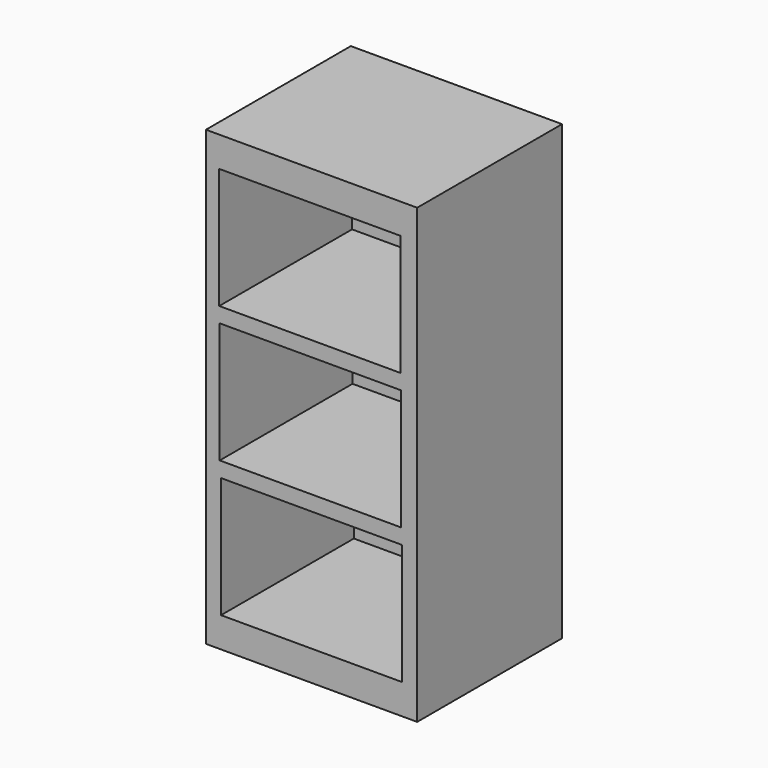
from build123d import *

# Parameters (mm, degrees)
F0_W     = 177.8
F0_H     = 152.4
F1_DEPTH = 381
F2_W     = 152.4
F2_H     = 101.6
F3_DEPTH = 139.7
F4_W     = 152.4
F4_H     = 101.6
F6_DEPTH = 139.7
F5_W     = 152.4
F5_H     = 101.6
F7_DEPTH = 139.7


with BuildPart() as f1:
    # F0 (on Top) → F1 (new body)
    with BuildSketch(Plane.XY):
        Rectangle(F0_W, F0_H)
    extrude(amount=F1_DEPTH)

    # F2 (on face) → F3 (cut)
    with BuildSketch(Plane.XZ.offset(76.2)):
        with Locations((-1.507785, 304.8)):
            Rectangle(F2_W, F2_H)
    extrude(amount=-F3_DEPTH, mode=Mode.SUBTRACT)

    # F4 (on face) → F6 (cut)
    with BuildSketch(Plane.XZ.offset(76.2)):
        with Locations((-1.10613, 190.5)):
            Rectangle(F4_W, F4_H)
    extrude(amount=-F6_DEPTH, mode=Mode.SUBTRACT)

    # F5 (on face) → F7 (cut)
    with BuildSketch(Plane.XZ.offset(76.2)):
        with Locations((0, 76.2)):
            Rectangle(F5_W, F5_H)
    extrude(amount=-F7_DEPTH, mode=Mode.SUBTRACT)


solid = f1.part
